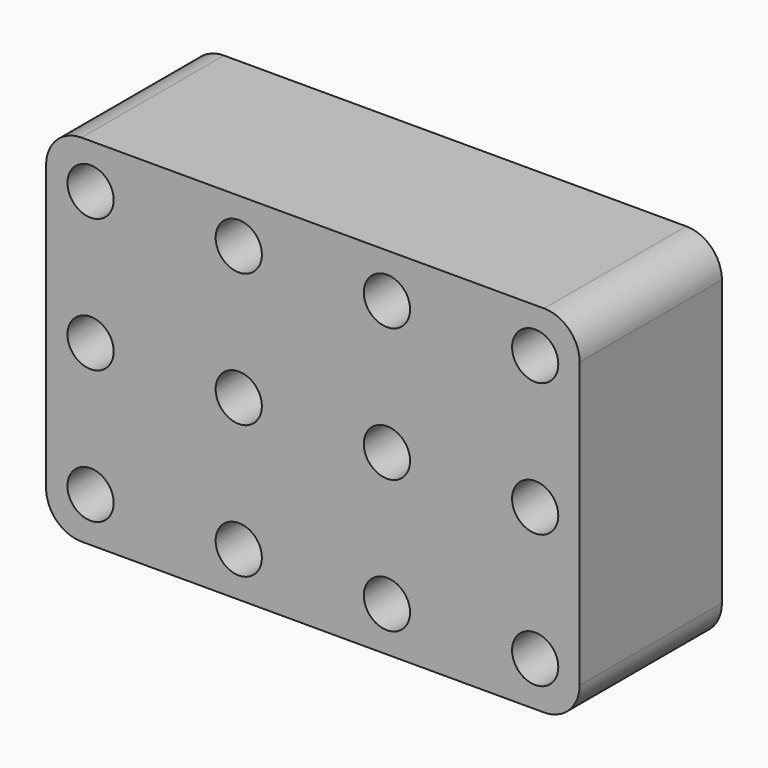
from build123d import *

# Parameters (mm, degrees)
F0_W     = 76.2
F0_H     = 50.8
F1_DEPTH = 25.4
F2_R     = 3.302
F3_DEPTH = 19.05
F4_R     = 5.08


with BuildPart() as f1:
    # F0 (on Front) → F1 (new body)
    with BuildSketch(Plane.XZ):
        with Locations((38.1, 25.4)):
            Rectangle(F0_W, F0_H)
    extrude(amount=F1_DEPTH)

    # F2 (on face) → F3 (cut)
    with BuildSketch(Plane.XZ.offset(25.4)):
        with Locations((69.85, 6.35)):
            Circle(F2_R)
        with Locations((69.85, 25.4)):
            Circle(F2_R)
        with Locations((69.85, 44.45)):
            Circle(F2_R)
        with Locations((48.683333, 6.35)):
            Circle(F2_R)
        with Locations((48.683333, 25.4)):
            Circle(F2_R)
        with Locations((48.683333, 44.45)):
            Circle(F2_R)
        with Locations((27.516667, 6.35)):
            Circle(F2_R)
        with Locations((27.516667, 25.4)):
            Circle(F2_R)
        with Locations((27.516667, 44.45)):
            Circle(F2_R)
        with Locations((6.35, 6.35)):
            Circle(F2_R)
        with Locations((6.35, 25.4)):
            Circle(F2_R)
        with Locations((6.35, 44.45)):
            Circle(F2_R)
    extrude(amount=-F3_DEPTH, mode=Mode.SUBTRACT)

    # F4
    f4_edges = [f1.edges().sort_by_distance(p)[0] for p in [
        (76.2, -12.7, 50.8),
        (0, -12.7, 50.8),
        (0, -12.7, 0),
        (76.2, -12.7, 0),
    ]]
    fillet(f4_edges, radius=F4_R)


solid = f1.part
